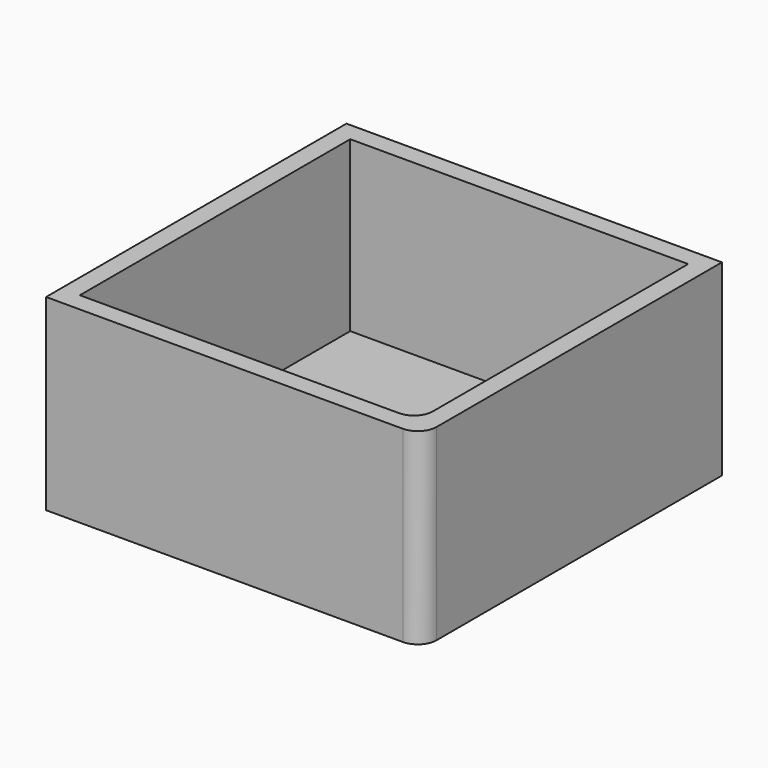
from build123d import *

# Parameters (mm, degrees)
SKETCH_W     = 20
SKETCH_H     = 20
PAD_DEPTH    = 10
SKETCH001_W  = 18
SKETCH001_H  = 18
POCKET_DEPTH = 9
FILLET_R     = 1
FILLET001_R  = 1


with BuildPart() as part:
    # Sketch → Pad (new body)
    with BuildSketch(Plane.XY):
        with Locations((10, 10)):
            Rectangle(SKETCH_W, SKETCH_H)
    extrude(amount=PAD_DEPTH)

    # Sketch001 → Pocket (cut)
    with BuildSketch(Plane.XY.offset(10)):
        with Locations((10, 10)):
            Rectangle(SKETCH001_W, SKETCH001_H)
    extrude(amount=-POCKET_DEPTH, mode=Mode.SUBTRACT)

    # Fillet
    fillet_edges = [part.edges().sort_by_distance(p)[0] for p in [
        (20, 0, 5),
    ]]
    fillet(fillet_edges, radius=FILLET_R)

    # Fillet001
    fillet001_edges = [part.edges().sort_by_distance(p)[0] for p in [
        (19, 1, 5.5),
    ]]
    fillet(fillet001_edges, radius=FILLET001_R)


solid = part.part
